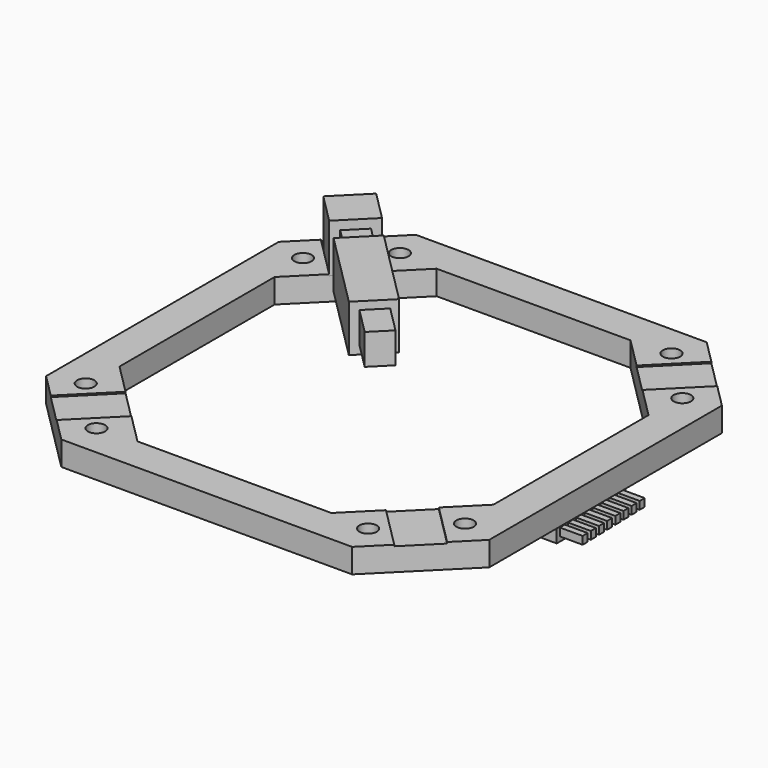
from build123d import *

# Parameters (mm, degrees)
F1_DEPTH       = 3.3
F0_R           = 1.25
F2_DEPTH       = 3.5
F5_DEPTH       = 7
F6_W           = 3.4931492992
F6_H           = 4.4417206138
F7_DEPTH       = 25
F10_W          = 15.6438741833
F10_H          = 6.7903799936
F11_DEPTH      = 4.5
F11_DEPTH_BACK = 1.2
F12_W          = 2.6789866388
F12_H          = 12.4484598637
F13_DEPTH      = 3
F14_W          = 0.9054932743
F14_H          = 1.1253841482
F15_DEPTH      = 3.3


with BuildPart() as f1:
    # F0 (on Top) → F1 (new body)
    with BuildSketch(Plane.XY):
        Polygon((-22.6213203436, 18.3786796564), (-18.3786796564, 22.6213203436), (-24.3786796564, 28.6213203436), (-28.6213203436, 24.3786796564), align=None)
    extrude(amount=F1_DEPTH)


with BuildPart() as f1b:
    # F0 (on Top) → F1, piece 2 (new body)
    with BuildSketch(Plane.XY):
        Polygon((24.3786796564, 28.6213203436), (18.3786796564, 22.6213203436), (22.6213203436, 18.3786796564), (28.6213203436, 24.3786796564), align=None)
    extrude(amount=F1_DEPTH)


with BuildPart() as f1c:
    # F0 (on Top) → F1, piece 3 (new body)
    with BuildSketch(Plane.XY):
        Polygon((28.6213203436, -24.3786796564), (22.6213203436, -18.3786796564), (18.3786796564, -22.6213203436), (24.3786796564, -28.6213203436), align=None)
    extrude(amount=F1_DEPTH)


with BuildPart() as f1d:
    # F0 (on Top) → F1, piece 4 (new body)
    with BuildSketch(Plane.XY):
        Polygon((-18.3786796564, -22.6213203436), (-22.6213203436, -18.3786796564), (-28.6213203436, -24.3786796564), (-24.3786796564, -28.6213203436), align=None)
    extrude(amount=F1_DEPTH)


with BuildPart() as f2:
    # F0 (on Top) → F2 (new body)
    with BuildSketch(Plane.XY):
        Polygon((-27, 14), (-22.6213203436, 18.3786796564), (-28.6213203436, 24.3786796564), (-32, 21), (-32, -21), (-28.6213203436, -24.3786796564), (-22.6213203436, -18.3786796564), (-27, -14), align=None)
        with Locations((-27.3890872966, -19.6109127034)):
            Circle(F0_R, mode=Mode.SUBTRACT)
        with Locations((-27.3890872965, 19.6109127035)):
            Circle(F0_R, mode=Mode.SUBTRACT)
    extrude(amount=F2_DEPTH)


with BuildPart() as f2b:
    # F0 (on Top) → F2, piece 2 (new body)
    with BuildSketch(Plane.XY):
        Polygon((-18.3786796564, 22.6213203436), (-14, 27), (14, 27), (18.3786796564, 22.6213203436), (24.3786796564, 28.6213203436), (21, 32), (-21, 32), (-24.3786796564, 28.6213203436), align=None)
        with Locations((-19.6109127034, 27.3890872966)):
            Circle(F0_R, mode=Mode.SUBTRACT)
        with Locations((19.6109127035, 27.3890872965)):
            Circle(F0_R, mode=Mode.SUBTRACT)
    extrude(amount=F2_DEPTH)


with BuildPart() as f2c:
    # F0 (on Top) → F2, piece 3 (new body)
    with BuildSketch(Plane.XY):
        Polygon((28.6213203436, 24.3786796564), (22.6213203436, 18.3786796564), (27, 14), (27, -14), (22.6213203436, -18.3786796564), (28.6213203436, -24.3786796564), (32, -21), (32, 21), align=None)
        with Locations((27.3890872965, -19.6109127035)):
            Circle(F0_R, mode=Mode.SUBTRACT)
        with Locations((27.3890872966, 19.6109127034)):
            Circle(F0_R, mode=Mode.SUBTRACT)
    extrude(amount=F2_DEPTH)


with BuildPart() as f2d:
    # F0 (on Top) → F2, piece 4 (new body)
    with BuildSketch(Plane.XY):
        Polygon((-14, -27), (-18.3786796564, -22.6213203436), (-24.3786796564, -28.6213203436), (-21, -32), (21, -32), (24.3786796564, -28.6213203436), (18.3786796564, -22.6213203436), (14, -27), align=None)
        with Locations((-19.6109127035, -27.3890872965)):
            Circle(F0_R, mode=Mode.SUBTRACT)
        with Locations((19.6109127034, -27.3890872966)):
            Circle(F0_R, mode=Mode.SUBTRACT)
    extrude(amount=F2_DEPTH)


with BuildPart() as f2_1:
    add(f2.part)

    # F3: union F1d, F2d, F1c, F2c, F1b, F2b, F1
    add(f1d.part)
    add(f2d.part)
    add(f1c.part)
    add(f2c.part)
    add(f1b.part)
    add(f2b.part)
    add(f1.part)


with BuildPart() as f5:
    # F4 (on face) → F5 (new body)
    with BuildSketch(Plane.XY.offset(3.3)):
        Polygon((-26.8639610307, 22.6213203436), (-22.6213203436, 18.3786796564), (-18.3786796564, 22.6213203436), (-22.6213203436, 26.8639610307), align=None)
    extrude(amount=F5_DEPTH)

    # F6 (on face) → F7 (join)
    with BuildSketch(Plane(origin=(-20.5, 20.5, 0), x_dir=(0.7071067812, 0.7071067812, 0), z_dir=(0.7071067812, -0.7071067812, 0))):
        with Locations((0, 6.8)):
            Rectangle(F6_W, F6_H)
    extrude(amount=F7_DEPTH)


with BuildPart() as f8_1:
    # F8: copy of F5
    add(f5.part)

    # F10 (on face) → F11 (join, two sides)
    with BuildSketch(Plane(origin=(-1.2350147786, -1.2350147786, 0), x_dir=(0.7071067812, -0.7071067812, 0), z_dir=(-0.7071067812, -0.7071067812, 0))) as f11_sk:
        with Locations((-17.2023242339, 6.7497757263)):
            Rectangle(F10_W, F10_H)
    extrude(amount=-F11_DEPTH)
    extrude(f11_sk.sketch, amount=F11_DEPTH_BACK)


with BuildPart() as f13:
    # F12 (on face) → F13 (new body)
    with BuildSketch(Plane(origin=(0, 0, 0), x_dir=(1, 0, 0), z_dir=(0, 0, -1))):
        with Locations((29.3528102338, 0.96334517)):
            Rectangle(F12_W, F12_H)
    extrude(amount=F13_DEPTH)

    # F14 (on face) → F15 (join)
    with BuildSketch(Plane.YZ.offset(30.6923035532)):
        with Locations((-6.1774876997, -1.7611554813)):
            Rectangle(F14_W, F14_H)
        with Locations((-4.7057819769, -1.7238475554)):
            Rectangle(F14_W, F14_H)
        with Locations((-3.2340762541, -1.6865396295)):
            Rectangle(F14_W, F14_H)
        with Locations((4.12445236, -1.5)):
            Rectangle(F14_W, F14_H)
        with Locations((2.6527466372, -1.5373079259)):
            Rectangle(F14_W, F14_H)
        with Locations((1.1810409144, -1.5746158518)):
            Rectangle(F14_W, F14_H)
        with Locations((-0.2906648085, -1.6119237777)):
            Rectangle(F14_W, F14_H)
        with Locations((-1.7623705313, -1.6492317036)):
            Rectangle(F14_W, F14_H)
        with Locations((-3.2340762541, -1.6865396295)):
            Rectangle(F14_W, F14_H)
        with Locations((-4.7057819769, -1.7238475554)):
            Rectangle(F14_W, F14_H)
        with Locations((-6.1774876997, -1.7611554813)):
            Rectangle(F14_W, F14_H)
    extrude(amount=F15_DEPTH)


solid = Compound([f2_1.part, f8_1.part, f13.part])
